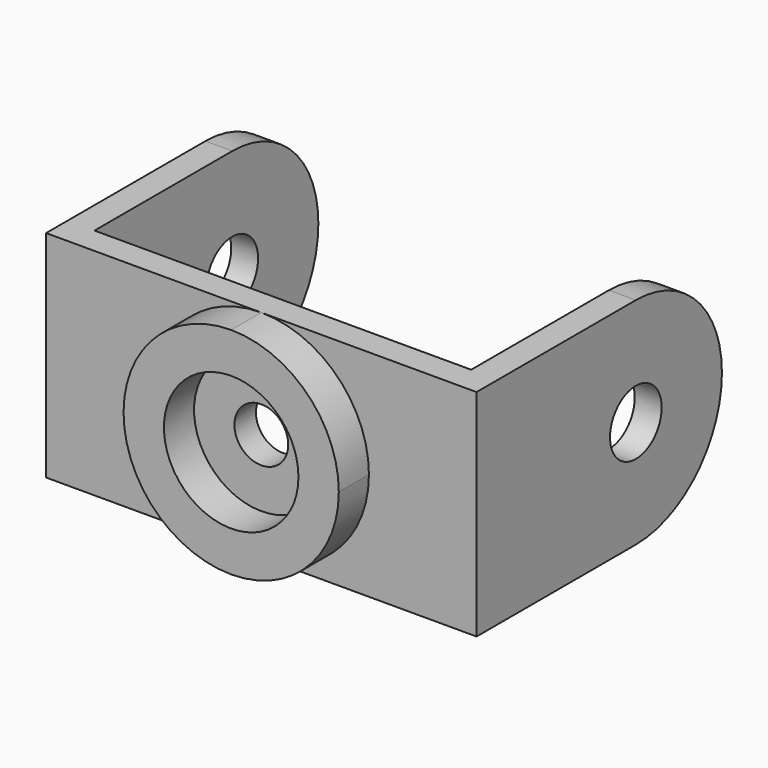
from build123d import *

# Parameters (mm, degrees)
F0_R     = 317.5
F1_DEPTH = 127
F2_DEPTH = 177.8
F0_R_2   = 127
F3_DEPTH = 127
F4_R     = 152.4
F5_DEPTH = 127
F6_R     = 152.4
F7_DEPTH = 127


with BuildPart() as f1:
    # F0 (on Front) → F1 (new body)
    with BuildSketch(Plane.XZ):
        with BuildLine():
            ThreePointArc((2e-06, 508), (359.210245, 359.210244), (508, 0))
            ThreePointArc((508, 0), (359.210245, -359.210244), (2e-06, -508))
            Line((2e-06, -508), (1016, -508))
            Line((1016, -508), (1016, 508))
            Line((1016, 508), (2e-06, 508))
        make_face()
        with BuildLine():
            ThreePointArc((2e-06, -508), (-508, 0), (2e-06, 508))
            Line((2e-06, 508), (-1016, 508))
            Line((-1016, 508), (-1016, -508))
            Line((-1016, -508), (2e-06, -508))
        make_face()
        with BuildLine():
            ThreePointArc((2e-06, -508), (359.210245, -359.210244), (508, 0))
            ThreePointArc((508, 0), (359.210245, 359.210244), (2e-06, 508))
            ThreePointArc((2e-06, 508), (-508, 0), (2e-06, -508))
        make_face()
        Circle(F0_R, mode=Mode.SUBTRACT)
    extrude(amount=-F1_DEPTH)

    # F0 (on Front) → F2 (join)
    with BuildSketch(Plane.XZ):
        with BuildLine():
            ThreePointArc((2e-06, -508), (359.210245, -359.210244), (508, 0))
            ThreePointArc((508, 0), (359.210245, 359.210244), (2e-06, 508))
            ThreePointArc((2e-06, 508), (-508, 0), (2e-06, -508))
        make_face()
        Circle(F0_R, mode=Mode.SUBTRACT)
    extrude(amount=F2_DEPTH)

    # F0 (on Front) → F3 (join)
    with BuildSketch(Plane.XZ):
        Circle(F0_R)
        Circle(F0_R_2, mode=Mode.SUBTRACT)
    extrude(amount=-F3_DEPTH)

    # F4 (on face) → F5 (join)
    with BuildSketch(Plane(origin=(-1016, 0, 0), x_dir=(0, -1, 0), z_dir=(-1, 0, 0))):
        with BuildLine():
            Line((-127, -508), (-127, 508))
            Line((-127, 508), (-939.8, 508))
            ThreePointArc((-939.8, 508), (-1447.8, 0), (-939.8, -508))
            Line((-939.8, -508), (-127, -508))
        make_face()
        with Locations((-939.8, 0)):
            Circle(F4_R, mode=Mode.SUBTRACT)
    extrude(amount=-F5_DEPTH)

    # F6 (on face) → F7 (join)
    with BuildSketch(Plane.YZ.offset(1016)):
        with BuildLine():
            Line((127, 508), (127, -508))
            Line((127, -508), (939.8, -508))
            ThreePointArc((939.8, -508), (1447.8, 0), (939.8, 508))
            Line((939.8, 508), (127, 508))
        make_face()
        with Locations((939.8, 0)):
            Circle(F6_R, mode=Mode.SUBTRACT)
    extrude(amount=-F7_DEPTH)


solid = f1.part
